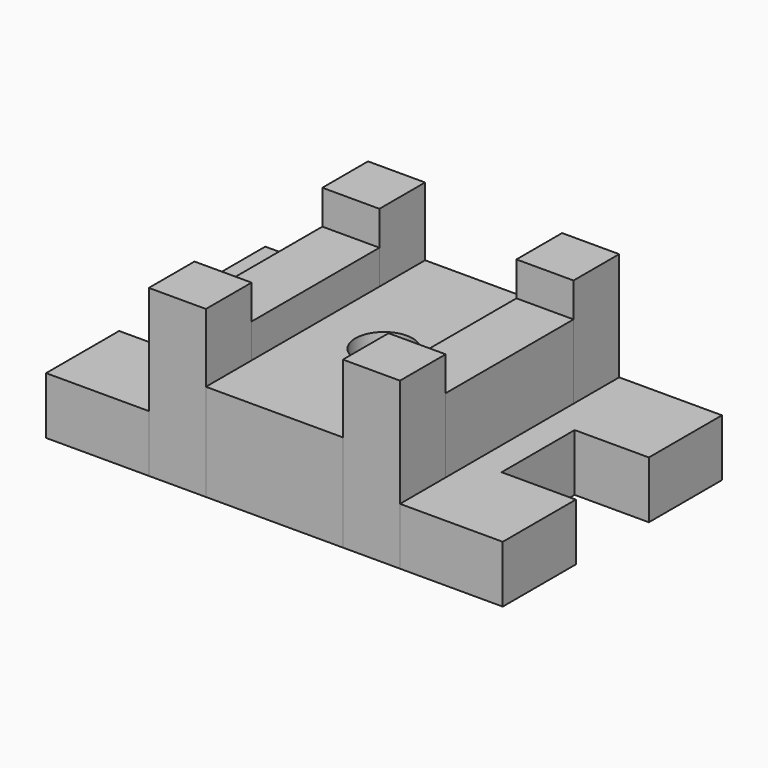
from build123d import *

# Parameters (mm, degrees)
F1_DEPTH = 31.75
F2_DEPTH = 31.75
F0_W     = 31.75
F0_H     = 31.75
F3_DEPTH = 92.075
F0_H_2   = 88.9
F4_DEPTH = 73.025
F0_R     = 15.875
F5_DEPTH = 53.975
F6_SCALE = 0.5


with BuildPart() as f1:
    # F0 (on Top) → F1 (new body)
    with BuildSketch(Plane.XY):
        Polygon((-51.9184716105, 76.2), (-109.0684716105, 76.2), (-109.0684716105, 25.4), (-67.7934716105, 25.4), (-67.7934716105, -25.4), (-109.0684716105, -25.4), (-109.0684716105, -76.2), (-51.9184716105, -76.2), (-51.9184716105, -44.45), (-51.9184716105, 44.45), align=None)
    extrude(amount=F1_DEPTH)


with BuildPart() as f2:
    # F0 (on Top) → F2 (new body)
    with BuildSketch(Plane.XY):
        Polygon((144.9315283895, 76.2), (87.7815283895, 76.2), (87.7815283895, 44.45), (87.7815283895, -44.45), (87.7815283895, -76.2), (144.9315283895, -76.2), (144.9315283895, -25.4), (103.6565283895, -25.4), (103.6565283895, 25.4), (144.9315283895, 25.4), align=None)
    extrude(amount=F2_DEPTH)


with BuildPart() as f3:
    # F0 (on Top) → F3 (new body)
    with BuildSketch(Plane.XY):
        with Locations((-36.0434716105, -60.325)):
            Rectangle(F0_W, F0_H)
    extrude(amount=F3_DEPTH)


with BuildPart() as f3b:
    # F0 (on Top) → F3, piece 2 (new body)
    with BuildSketch(Plane.XY):
        with Locations((-36.0434716105, 60.325)):
            Rectangle(F0_W, F0_H)
    extrude(amount=F3_DEPTH)


with BuildPart() as f3c:
    # F0 (on Top) → F3, piece 3 (new body)
    with BuildSketch(Plane.XY):
        with Locations((71.9065283895, 60.325)):
            Rectangle(F0_W, F0_H)
    extrude(amount=F3_DEPTH)


with BuildPart() as f3d:
    # F0 (on Top) → F3, piece 4 (new body)
    with BuildSketch(Plane.XY):
        with Locations((71.9065283895, -60.325)):
            Rectangle(F0_W, F0_H)
    extrude(amount=F3_DEPTH)


with BuildPart() as f4:
    # F0 (on Top) → F4 (new body)
    with BuildSketch(Plane.XY):
        with Locations((-36.0434716105, 0)):
            Rectangle(F0_W, F0_H_2)
    extrude(amount=F4_DEPTH)


with BuildPart() as f4b:
    # F0 (on Top) → F4, piece 2 (new body)
    with BuildSketch(Plane.XY):
        with Locations((71.9065283895, 0)):
            Rectangle(F0_W, F0_H_2)
    extrude(amount=F4_DEPTH)


with BuildPart() as f5:
    # F0 (on Top) → F5 (new body)
    with BuildSketch(Plane.XY):
        Polygon((56.0315283895, 76.2), (-20.1684716105, 76.2), (-20.1684716105, 44.45), (-20.1684716105, -44.45), (-20.1684716105, -76.2), (56.0315283895, -76.2), (56.0315283895, -44.45), (56.0315283895, 44.45), align=None)
        with Locations((17.9315283895, 0)):
            Circle(F0_R, mode=Mode.SUBTRACT)
    extrude(amount=F5_DEPTH)


with BuildPart() as f1_1:
    # F6: moved
    add(f1.part.scale(F6_SCALE))


with BuildPart() as f2_1:
    # F6: moved
    add(f2.part.scale(F6_SCALE))


with BuildPart() as f3b_1:
    # F6: moved
    add(f3b.part.scale(F6_SCALE))


with BuildPart() as f3_1:
    # F6: moved
    add(f3.part.scale(F6_SCALE))


with BuildPart() as f3c_1:
    # F6: moved
    add(f3c.part.scale(F6_SCALE))


with BuildPart() as f3d_1:
    # F6: moved
    add(f3d.part.scale(F6_SCALE))


with BuildPart() as f4_1:
    # F6: moved
    add(f4.part.scale(F6_SCALE))


with BuildPart() as f4b_1:
    # F6: moved
    add(f4b.part.scale(F6_SCALE))


with BuildPart() as f5_1:
    # F6: moved
    add(f5.part.scale(F6_SCALE))


solid = Compound([f1_1.part, f2_1.part, f3b_1.part, f3_1.part, f3c_1.part, f3d_1.part, f4_1.part, f4b_1.part, f5_1.part])
